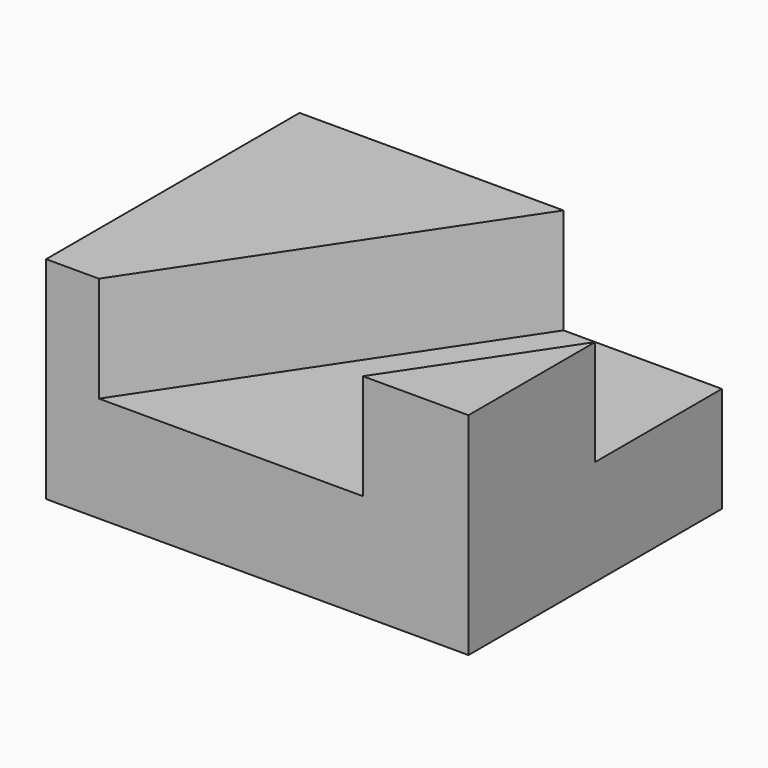
from build123d import *

# Parameters (mm, degrees)
F0_W     = 101.6
F0_H     = 25.4
F1_DEPTH = 76.2
F3_DEPTH = 25.4
F5_DEPTH = 25.4


with BuildPart() as f1:
    # F0 (on Front) → F1 (new body)
    with BuildSketch(Plane.XZ):
        with Locations((-5.89583, -16.972582)):
            Rectangle(F0_W, F0_H)
    extrude(amount=F1_DEPTH)

    # F2 (on face) → F3 (join)
    with BuildSketch(Plane.XY.offset(-4.272582)):
        Polygon((19.50417, -76.2), (44.90417, -76.2), (44.90417, -38.1), align=None)
    extrude(amount=F3_DEPTH)

    # F4 (on face) → F5 (join)
    with BuildSketch(Plane.XY.offset(-4.272582)):
        Polygon((-56.69583, 0), (-56.69583, -76.2), (-43.99583, -76.2), (6.80417, 0), align=None)
    extrude(amount=F5_DEPTH)


solid = f1.part
